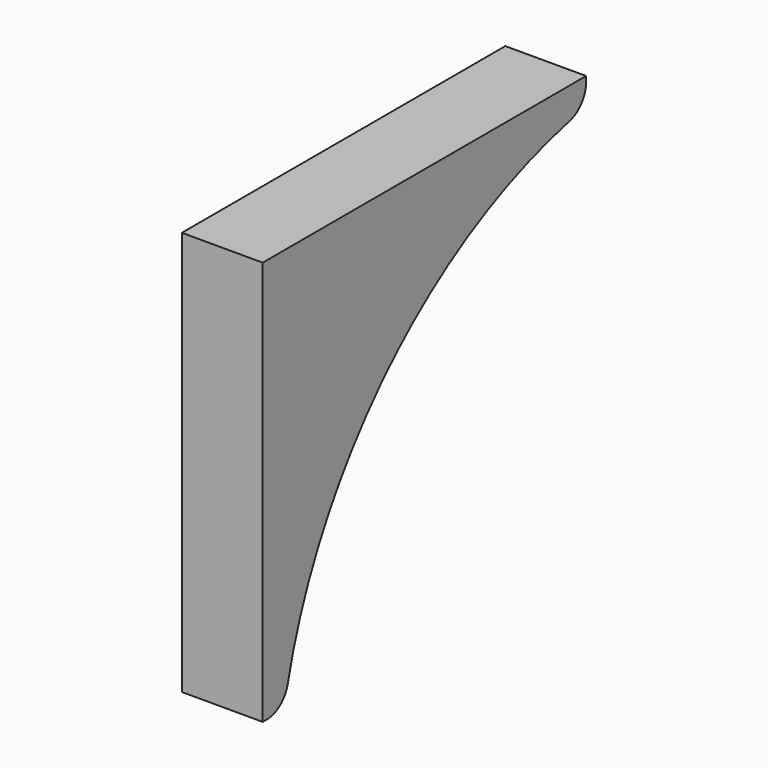
from build123d import *

# Parameters (mm, degrees)
PAD005_DEPTH = 6
FILLET_R     = 2
FILLET001_R  = 2


with BuildPart() as part:
    # Sketch013 → Pad005 (new body)
    with BuildSketch(Plane.YZ):
        with BuildLine():
            Line((6.011752, 0), (36.011752, 0))
            Line((36.011752, 0), (36.011752, -2))
            ThreePointArc((36.011752, -2), (17.671346, -11.659594), (8.011752, -30))
            Line((8.011752, -30), (6.011752, -30))
            Line((6.011752, -30), (6.011752, 0))
        make_face()
    extrude(amount=PAD005_DEPTH)

    # Fillet
    fillet_edges = [part.edges().sort_by_distance(p)[0] for p in [
        (3, 36.011752, -2),
    ]]
    fillet(fillet_edges, radius=FILLET_R)

    # Fillet001
    fillet001_edges = [part.edges().sort_by_distance(p)[0] for p in [
        (3, 8.011752, -30),
    ]]
    fillet(fillet001_edges, radius=FILLET001_R)


with BuildPart() as part_1:
    # Body004 placement: moved
    add(part.part.moved(Location((-4.016, 0.057, 0))))


solid = part_1.part
